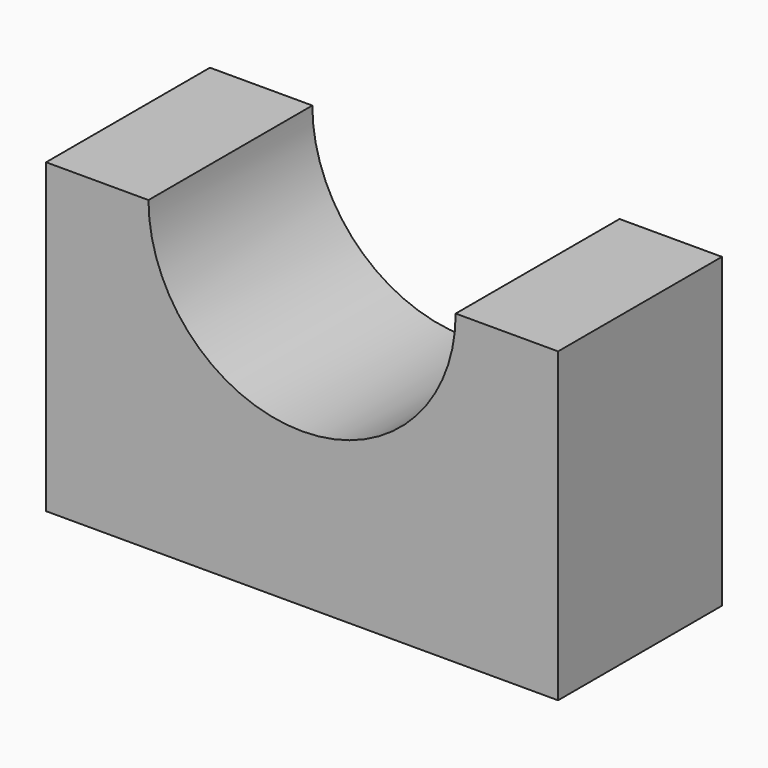
from build123d import *

# Parameters (mm, degrees)
F0_W     = 63.5
F0_H     = 38.1
F1_DEPTH = 25.4
F3_DEPTH = 25.4


with BuildPart() as f1:
    # F0 (on Front) → F1 (new body)
    with BuildSketch(Plane.XZ):
        with Locations((31.75, 19.05)):
            Rectangle(F0_W, F0_H)
    extrude(amount=-F1_DEPTH)

    # F2 (on Front) → F3 (cut)
    with BuildSketch(Plane.XZ):
        with BuildLine():
            Line((50.8, 38.1), (12.7, 38.1))
            ThreePointArc((12.7, 38.1), (31.75, 19.05), (50.8, 38.1))
        make_face()
    extrude(amount=-F3_DEPTH, mode=Mode.SUBTRACT)


solid = f1.part
